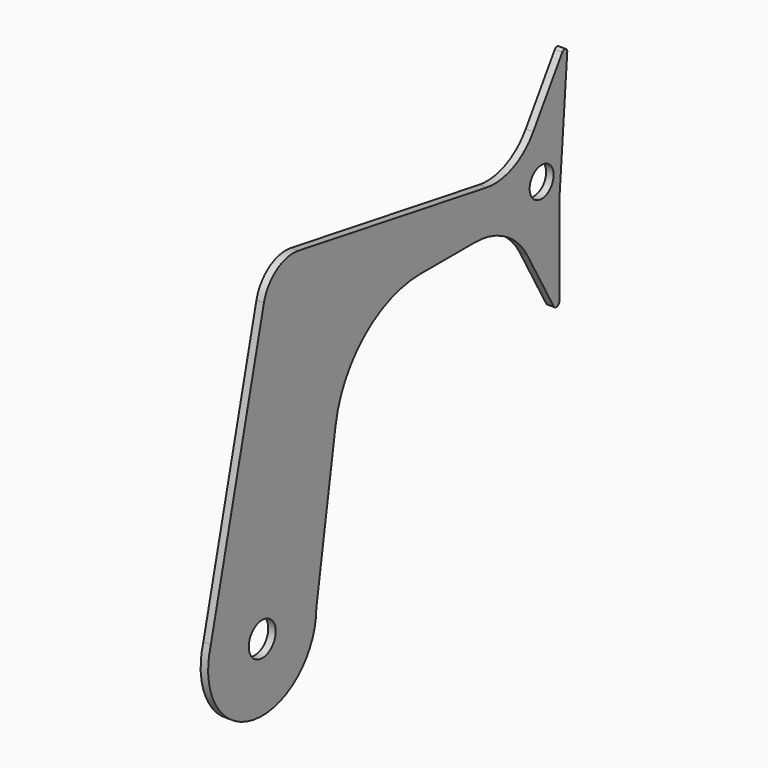
from build123d import *

# Parameters (mm, degrees)
F1_DEPTH = 6.35
F2_DEPTH = 6.35
F4_D     = 25.4
F0_R     = 14.2875
F5_DEPTH = 6.35


with BuildPart() as f1:
    # F0 (on Right) → F1 (new body)
    with BuildSketch(Plane.YZ):
        with BuildLine():
            ThreePointArc((-2.099991, -204.28443), (-2.100104, -204.39856), (-2.100445, -204.512689))
            Line((-2.100445, -204.512689), (18.158056, -77.147721))
            ThreePointArc((18.158056, -77.147721), (49.128885, -21.909255), (108.5466, 0))
            Line((108.5466, 0), (165.976715, 0))
            ThreePointArc((165.976715, 0), (198.077363, -8.676495), (221.435985, -32.343096))
            Line((221.435985, -32.343096), (249.324016, -81.635659))
            ThreePointArc((249.324016, -81.635659), (253.014213, -83.19258), (255.459351, -80.020378))
            Line((255.459351, -80.020378), (255.459351, -2.815202))
            Line((255.459351, -2.815202), (263.697012, 102.492085))
            ThreePointArc((263.697012, 102.492085), (261.769548, 105.424616), (258.449354, 104.288324))
            Line((258.449354, 104.288324), (227.64977, 57.433632))
            ThreePointArc((227.64977, 57.433632), (206.146196, 39.32667), (178.240132, 35.932943))
            Line((178.240132, 35.932943), (-21.036066, 69.812165))
            ThreePointArc((-21.036066, 69.812165), (-44.087909, 64.971566), (-57.640454, 45.706379))
            Line((-57.640454, 45.706379), (-113.891336, -186.494963))
            ThreePointArc((-113.891336, -186.494963), (-50.404443, -147.685468), (-2.099991, -204.28443))
        make_face()
    extrude(amount=F1_DEPTH)

    # F0 (on Right) → F2 (join)
    with BuildSketch(Plane.YZ):
        with BuildLine():
            ThreePointArc((-2.099991, -204.28443), (-2.100104, -204.39856), (-2.100445, -204.512689))
            Line((-2.100445, -204.512689), (18.158056, -77.147721))
            ThreePointArc((18.158056, -77.147721), (49.128885, -21.909255), (108.5466, 0))
            Line((108.5466, 0), (165.976715, 0))
            ThreePointArc((165.976715, 0), (198.077363, -8.676495), (221.435985, -32.343096))
            Line((221.435985, -32.343096), (249.324016, -81.635659))
            ThreePointArc((249.324016, -81.635659), (253.014213, -83.19258), (255.459351, -80.020378))
            Line((255.459351, -80.020378), (255.459351, -2.815202))
            Line((255.459351, -2.815202), (263.697012, 102.492085))
            ThreePointArc((263.697012, 102.492085), (261.769548, 105.424616), (258.449354, 104.288324))
            Line((258.449354, 104.288324), (227.64977, 57.433632))
            ThreePointArc((227.64977, 57.433632), (206.146196, 39.32667), (178.240132, 35.932943))
            Line((178.240132, 35.932943), (-21.036066, 69.812165))
            ThreePointArc((-21.036066, 69.812165), (-44.087909, 64.971566), (-57.640454, 45.706379))
            Line((-57.640454, 45.706379), (-113.891336, -186.494963))
            ThreePointArc((-113.891336, -186.494963), (-50.404443, -147.685468), (-2.099991, -204.28443))
        make_face()
    extrude(amount=F2_DEPTH)

    # F4 (through all)
    with Locations(Plane.YZ.offset(6.35)):
        with Locations((236.524433, 16.445378)):
            Hole(F4_D / 2)

    # F0 (on Right) → F5 (join)
    with BuildSketch(Plane.YZ):
        with BuildLine():
            ThreePointArc((-113.891336, -186.494963), (-68.530434, -260.865344), (-2.100445, -204.512689))
            ThreePointArc((-2.100445, -204.512689), (-2.100104, -204.39856), (-2.099991, -204.28443))
            ThreePointArc((-2.099991, -204.28443), (-50.404443, -147.685468), (-113.891336, -186.494963))
        make_face()
        with Locations((-59.411091, -204.28443)):
            Circle(F0_R, mode=Mode.SUBTRACT)
    extrude(amount=F5_DEPTH)


solid = f1.part
